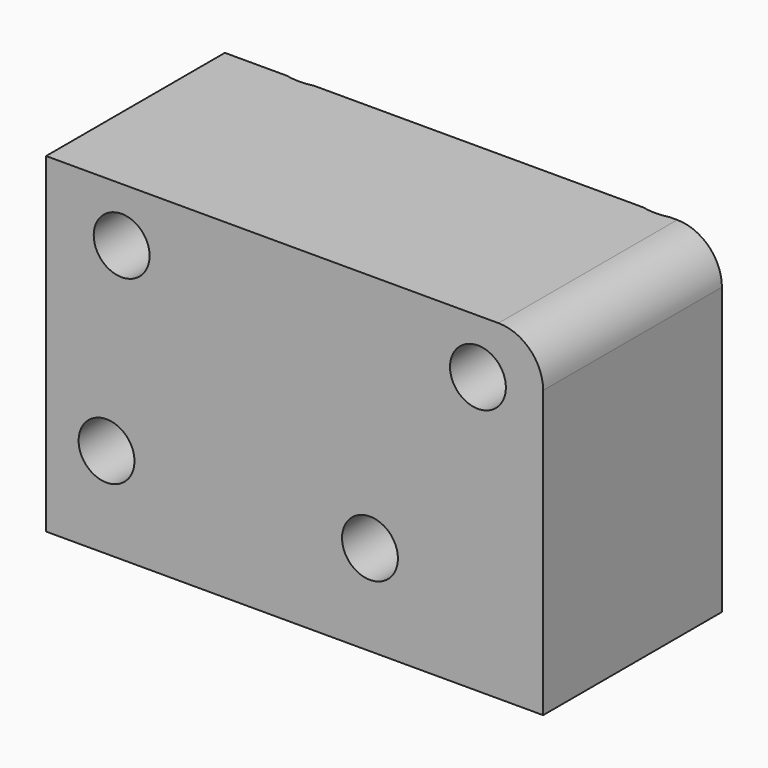
from build123d import *

# Parameters (mm, degrees)
F0_W           = 56.4960166812
F0_H           = 37.580087781
F1_DEPTH       = 25.4
F2_R           = 5.08
F4_D           = 6.35
F4_CSINK_D     = 12.7
F4_CSINK_ANGLE = 90


with BuildPart() as f1:
    # F0 (on Front) → F1 (new body)
    with BuildSketch(Plane.XZ):
        with Locations((28.2480083406, 18.7900438905)):
            Rectangle(F0_W, F0_H)
    extrude(amount=F1_DEPTH)

    # F2
    f2_edges = [f1.edges().sort_by_distance(p)[0] for p in [
        (56.496017, -12.7, 37.580088),
    ]]
    fillet(f2_edges, radius=F2_R)

    # F4 (through all)
    with Locations(Plane(origin=(0, 0, 0), x_dir=(1, 0, 0), z_dir=(0, 1, 0))):
        with Locations((8.5900304839, -31.4149707556), (6.8720257841, -10.3080365807), (36.81441769, -10.3080365807), (49.0858890116, -31.4149707556)):
            CounterSinkHole(F4_D / 2, F4_CSINK_D / 2, counter_sink_angle=F4_CSINK_ANGLE)


solid = f1.part
